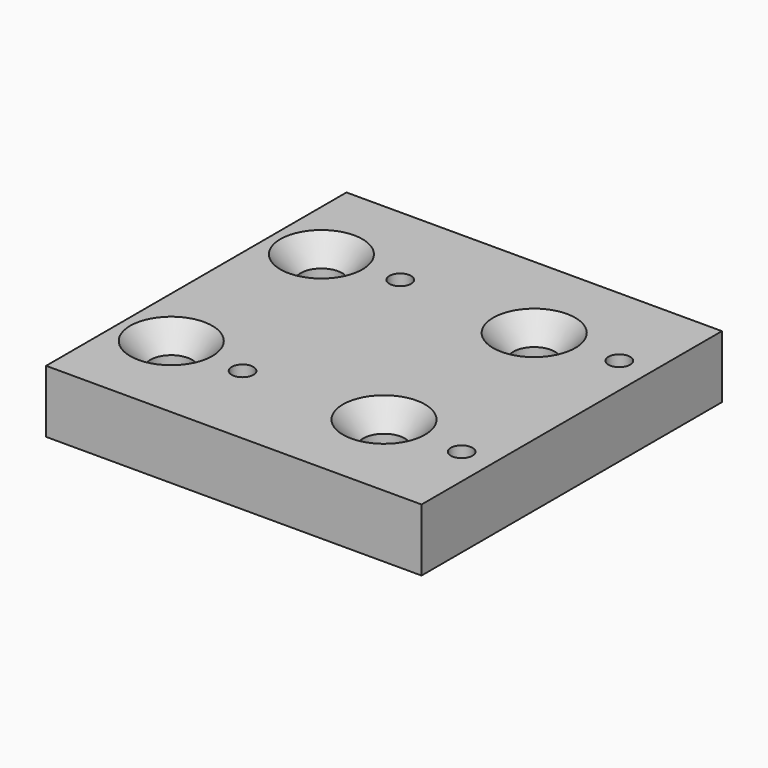
from build123d import *

# Parameters (mm, degrees)
F0_W           = 76.2
F0_H           = 76.2
F1_DEPTH       = 6.35
F3_D           = 8.4328
F3_CSINK_D     = 16.6624
F3_CSINK_ANGLE = 82
F5_D           = 4.4
F5_CBORE_D     = 8.25
F5_CBORE_DEPTH = 6.35


with BuildPart() as f1:
    # F0 (on Top) → F1 (new body, symmetric)
    with BuildSketch(Plane.XY):
        Rectangle(F0_W, F0_H)
    extrude(amount=F1_DEPTH, both=True)

    # F3 (through all)
    with Locations(Plane.XY.offset(6.35)):
        with Locations((-27.94, 19.05), (15.24, 19.05), (15.24, -19.05), (-27.94, -19.05)):
            CounterSinkHole(F3_D / 2, F3_CSINK_D / 2, counter_sink_angle=F3_CSINK_ANGLE)

    # F5 (through all)
    with Locations(Plane(origin=(0, 0, -6.35), x_dir=(1, 0, 0), z_dir=(0, 0, -1))):
        with Locations((-12.7, 20), (31.75, 20), (31.75, -20), (-12.7, -20)):
            CounterBoreHole(F5_D / 2, F5_CBORE_D / 2, F5_CBORE_DEPTH)


solid = f1.part
